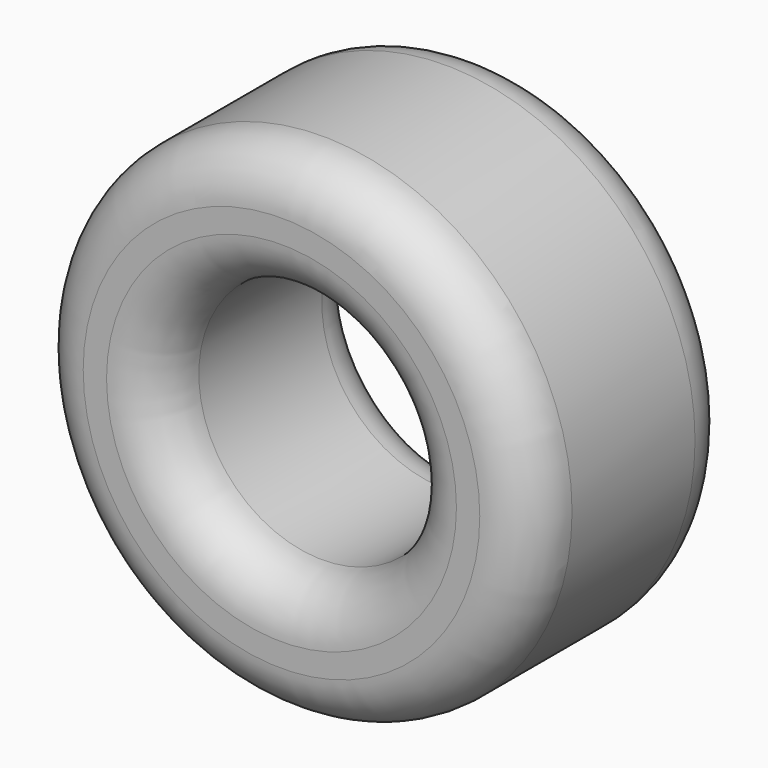
from build123d import *

# Parameters (mm, degrees)
F0_R     = 48.688201
F0_R_2   = 24.133595
F1_DEPTH = 50
F2_R     = 10


with BuildPart() as f1:
    # F0 (on Front) → F1 (new body)
    with BuildSketch(Plane.XZ):
        with Locations((-10.903678, 12.357511)):
            Circle(F0_R)
        with Locations((-10.903678, 12.357511)):
            Circle(F0_R_2, mode=Mode.SUBTRACT)
    extrude(amount=F1_DEPTH)

    # F2
    f2_edges = [f1.edges().sort_by_distance(p)[0] for p in [
        (-59.591879, 0, 12.357511),
        (-35.037273, 0, 12.357511),
        (-35.037273, -50, 12.357511),
        (13.229917, -25, 12.357511),
        (-59.591879, -50, 12.357511),
    ]]
    fillet(f2_edges, radius=F2_R)


solid = f1.part
